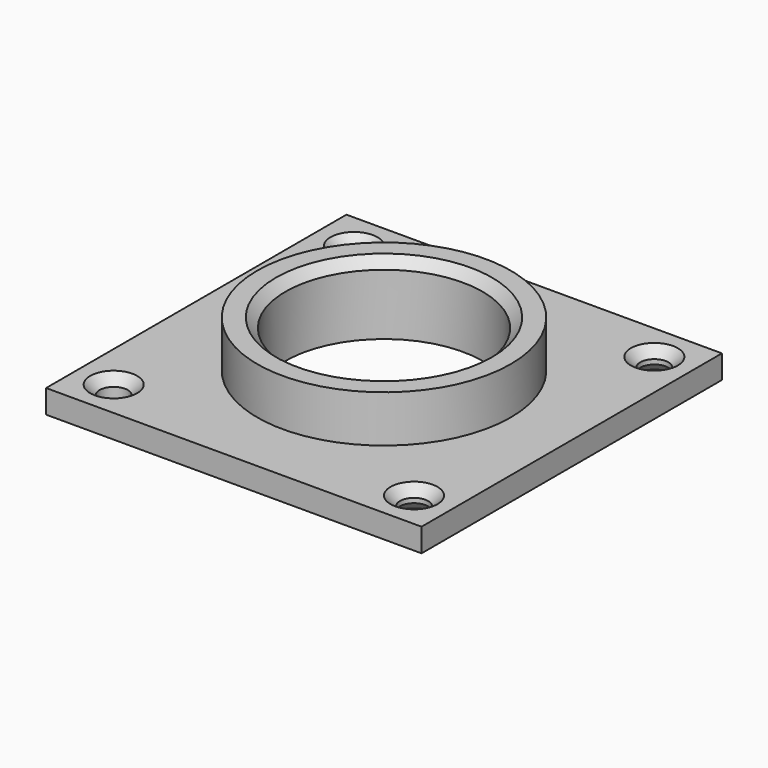
from build123d import *

# Parameters (mm, degrees)
F0_W     = 40
F0_H     = 40
F0_R     = 1.5
F0_R_2   = 13.5
F1_DEPTH = 2.5
F0_R_3   = 10.5
F2_DEPTH = 7.5
F3_SIZE  = 1
F4_SIZE  = 1
F5_SIZE  = 1


with BuildPart() as f1:
    # F0 (on Top) → F1 (new body)
    with BuildSketch(Plane.XY):
        Rectangle(F0_W, F0_H)
        with Locations((-16, -16)):
            Circle(F0_R, mode=Mode.SUBTRACT)
        with Locations((16, -16)):
            Circle(F0_R, mode=Mode.SUBTRACT)
        with Locations((-16, 16)):
            Circle(F0_R, mode=Mode.SUBTRACT)
        Circle(F0_R_2, mode=Mode.SUBTRACT)
        with Locations((16, 16)):
            Circle(F0_R, mode=Mode.SUBTRACT)
    extrude(amount=F1_DEPTH)

    # F0 (on Top) → F2 (join)
    with BuildSketch(Plane.XY):
        Circle(F0_R_2)
        Circle(F0_R_3, mode=Mode.SUBTRACT)
    extrude(amount=F2_DEPTH)

    # F3
    f3_edges = [f1.edges().sort_by_distance(p)[0] for p in [
        (-10.5, 0, 7.5),
    ]]
    chamfer(f3_edges, length=F3_SIZE)

    # F4
    f4_edges = [f1.edges().sort_by_distance(p)[0] for p in [
        (-17.5, -16, 2.5),
    ]]
    chamfer(f4_edges, length=F4_SIZE)

    # F5
    f5_edges = [f1.edges().sort_by_distance(p)[0] for p in [
        (17.5, -16, 1.25),
        (14.5, -16, 0),
        (14.5, -16, 2.5),
        (17.5, 16, 1.25),
        (14.5, 16, 0),
        (14.5, 16, 2.5),
        (-17.5, 16, 2.5),
    ]]
    chamfer(f5_edges, length=F5_SIZE)


solid = f1.part
